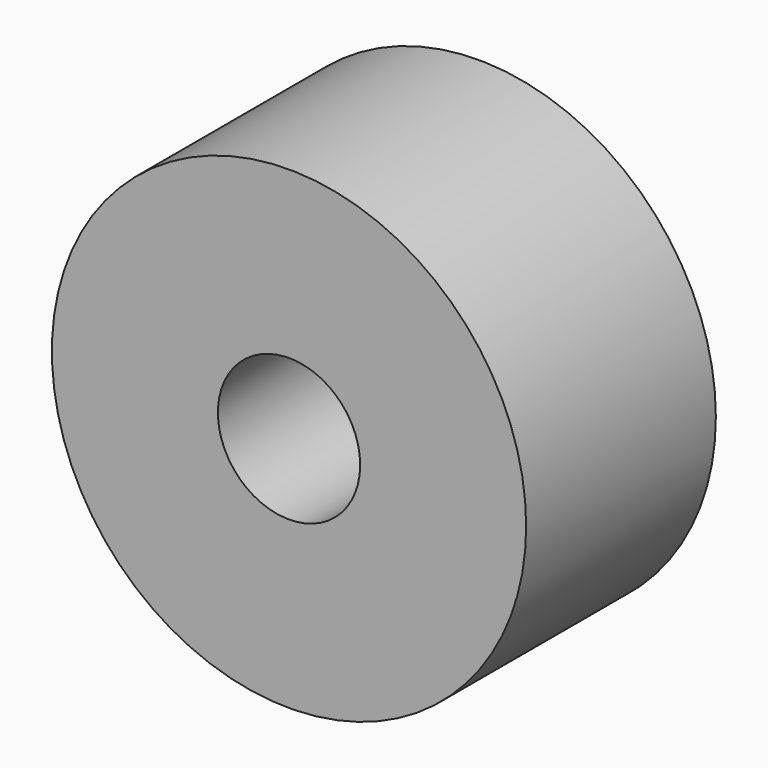
from build123d import *

# Parameters (mm, degrees)
CYLINDER011030_R     = 1.8
CYLINDER011030_DEPTH = 20
CYLINDER011031_R     = 6
CYLINDER011031_DEPTH = 6


with BuildPart() as belt_attach_bolt_hole:
    # Cylinder011030 → Cylinder011030 (new body)
    with BuildSketch(Plane.XZ):
        Circle(CYLINDER011030_R)
    extrude(amount=CYLINDER011030_DEPTH)


with BuildPart() as belt_horizontal_attach_washer_cut:
    # Cylinder011031 → Cylinder011031 (new body)
    with BuildSketch(Plane.XZ):
        Circle(CYLINDER011031_R)
    extrude(amount=CYLINDER011031_DEPTH)

    # Cut023015009021: cut belt attach bolt hole
    add(belt_attach_bolt_hole.part, mode=Mode.SUBTRACT)


solid = belt_horizontal_attach_washer_cut.part
